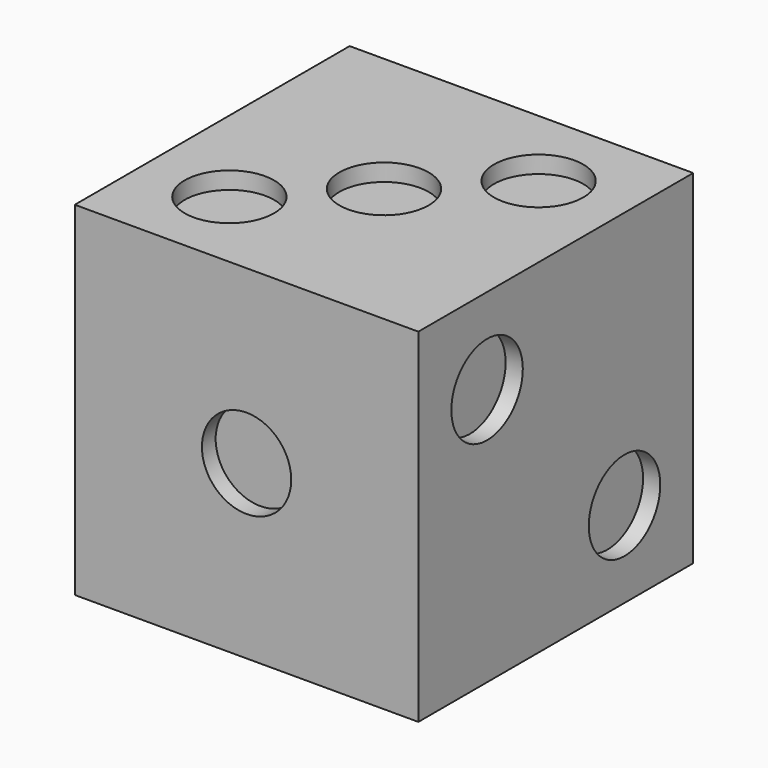
from build123d import *

# Parameters (mm, degrees)
F0_W      = 20
F0_H      = 20
F1_DEPTH  = 20
F2_R      = 2.6
F4_DEPTH  = 1
F6_R      = 2.6
F7_DEPTH  = 1
F9_R      = 2.6
F10_DEPTH = 1
F11_R     = 2.6
F12_DEPTH = 1
F13_R     = 2.6
F14_DEPTH = 1
F16_R     = 2.6
F17_DEPTH = 1
F18_R     = 2.6
F19_DEPTH = 1


with BuildPart() as f1:
    # F0 (on Front) → F1 (new body)
    with BuildSketch(Plane.XZ):
        with Locations((10, 10)):
            Rectangle(F0_W, F0_H)
    extrude(amount=F1_DEPTH)

    # F2 (on face) → F4 (cut)
    with BuildSketch(Plane.XZ.offset(20)):
        with Locations((10, 10)):
            Circle(F2_R)
    extrude(amount=-F4_DEPTH, mode=Mode.SUBTRACT)

    # F6 (on face) → F7 (cut)
    with BuildSketch(Plane(origin=(0, 0, 0), x_dir=(-1, 0, 0), z_dir=(0, 1, 0))):
        with Locations((-15, 16.5)):
            Circle(F6_R)
        with Locations((-4.849982, 16.5)):
            Circle(F6_R)
        with Locations((-15, 3.388915)):
            Circle(F6_R)
        with Locations((-4.849982, 3.388915)):
            Circle(F6_R)
        with Locations((-15, 9.898857)):
            Circle(F6_R)
        with Locations((-4.849982, 9.898857)):
            Circle(F6_R)
    extrude(amount=-F7_DEPTH, mode=Mode.SUBTRACT)

    # F9 (on face) → F10 (cut)
    with BuildSketch(Plane(origin=(0, 0, 0), x_dir=(0, -1, 0), z_dir=(-1, 0, 0))):
        with Locations((10.018395, 10.056804)):
            Circle(F9_R)
        with Locations((5, 15)):
            Circle(F9_R)
        with Locations((15, 5)):
            Circle(F9_R)
        with Locations((5, 5)):
            Circle(F9_R)
        with Locations((15, 15)):
            Circle(F9_R)
    extrude(amount=-F10_DEPTH, mode=Mode.SUBTRACT)

    # F11 (on face) → F12 (cut)
    with BuildSketch(Plane.YZ.offset(20)):
        with Locations((-15, 15)):
            Circle(F11_R)
        with Locations((-5, 5)):
            Circle(F11_R)
    extrude(amount=-F12_DEPTH, mode=Mode.SUBTRACT)

    # F13 (on face) → F14 (cut)
    with BuildSketch(Plane.XY.offset(20)):
        with Locations((10, -10)):
            Circle(F13_R)
        with Locations((15, -5)):
            Circle(F13_R)
        with Locations((5, -15)):
            Circle(F13_R)
    extrude(amount=-F14_DEPTH, mode=Mode.SUBTRACT)

    # F16 (on Top) → F17 (cut)
    with BuildSketch(Plane.XY):
        with Locations((5, -15)):
            Circle(F16_R)
        with Locations((5, -5)):
            Circle(F16_R)
        with Locations((15, -15)):
            Circle(F16_R)
        with Locations((15, -5)):
            Circle(F16_R)
    extrude(amount=-F17_DEPTH, mode=Mode.SUBTRACT)

    # F18 (on face) → F19 (cut)
    with BuildSketch(Plane(origin=(0, 0, 0), x_dir=(1, 0, 0), z_dir=(0, 0, -1))):
        with Locations((5, 15)):
            Circle(F18_R)
        with Locations((5, 5)):
            Circle(F18_R)
        with Locations((15, 15)):
            Circle(F18_R)
        with Locations((15, 5)):
            Circle(F18_R)
    extrude(amount=-F19_DEPTH, mode=Mode.SUBTRACT)


solid = f1.part
